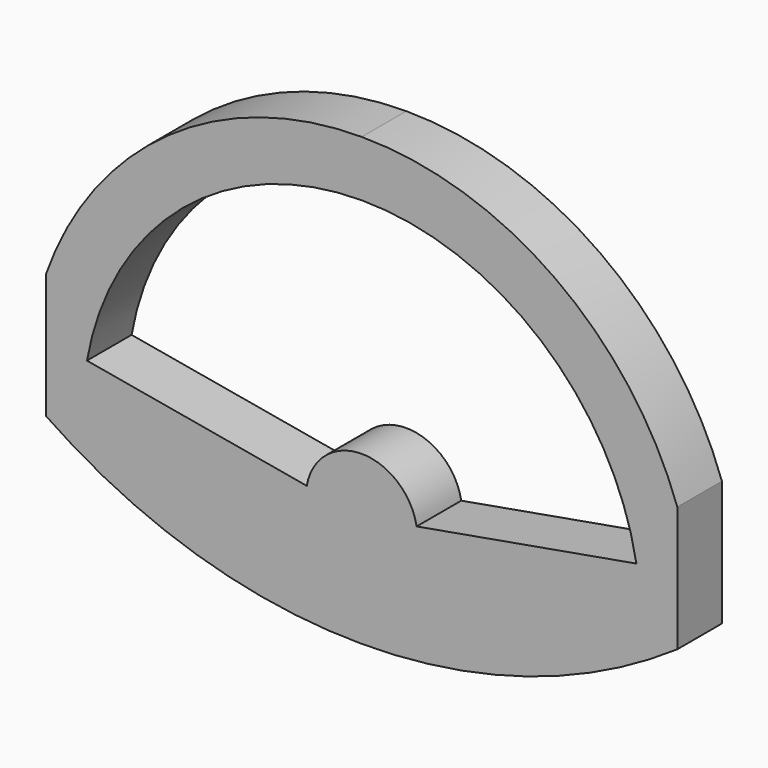
from build123d import *

# Parameters (mm, degrees)
F4_DEPTH = 12.7
F5_DEPTH = 12.7
F2_R     = 6.35
F6_DEPTH = 8.255
F3_R     = 1.5875
F7_DEPTH = 9.525
F9_DEPTH = 5.08


with BuildPart() as f4:
    # F0 (on Front) → F4 (new body)
    with BuildSketch(Plane.XZ):
        with BuildLine():
            ThreePointArc((71.842049, 0), (43.994091, 36.817039), (0, 50.8))
            ThreePointArc((0, 50.8), (-43.994091, 36.817039), (-71.842049, 0))
            Line((-71.842049, 0), (-71.842049, -28.526883))
            ThreePointArc((-71.842049, -28.526883), (-37.607751, -45.103986), (0, -50.8))
            ThreePointArc((0, -50.8), (37.607751, -45.103986), (71.842049, -28.526883))
            Line((71.842049, -28.526883), (71.842049, 0))
        make_face()
    extrude(amount=F4_DEPTH)

    # F1 (on Front) → F5 (cut, symmetric)
    with BuildSketch(Plane.XZ):
        with BuildLine():
            ThreePointArc((62.535292, -14.373341), (40.817013, 23.243822), (0, 38.1))
            ThreePointArc((0, 38.1), (-40.817013, 23.243822), (-62.535292, -14.373341))
            Line((-62.535292, -14.373341), (-12.507058, -23.194668))
            ThreePointArc((-12.507058, -23.194668), (0, -12.7), (12.507058, -23.194668))
            Line((12.507058, -23.194668), (62.535292, -14.373341))
        make_face()
    extrude(amount=F5_DEPTH, both=True, mode=Mode.SUBTRACT)

    # F2 (on Front) → F6 (cut)
    with BuildSketch(Plane.XZ):
        with Locations((0, -25.4)):
            Circle(F2_R)
    extrude(amount=F6_DEPTH, mode=Mode.SUBTRACT)

    # F3 (on Front) → F7 (cut)
    with BuildSketch(Plane.XZ):
        with Locations((7.14464, -21.27504)):
            Circle(F3_R)
        with Locations((-16.671561, -35.02533)):
            Circle(F3_R)
    extrude(amount=F7_DEPTH, mode=Mode.SUBTRACT)

    # F8 (on face) → F9 (cut)
    with BuildSketch(Plane(origin=(0, 0, 0), x_dir=(-1, 0, 0), z_dir=(0, 1, 0))):
        Polygon((-1.96021, -16.935924), (-8.31021, -27.934446), (11.487131, -39.364446), (17.837131, -28.365924), align=None)
    extrude(amount=-F9_DEPTH, mode=Mode.SUBTRACT)


solid = f4.part
